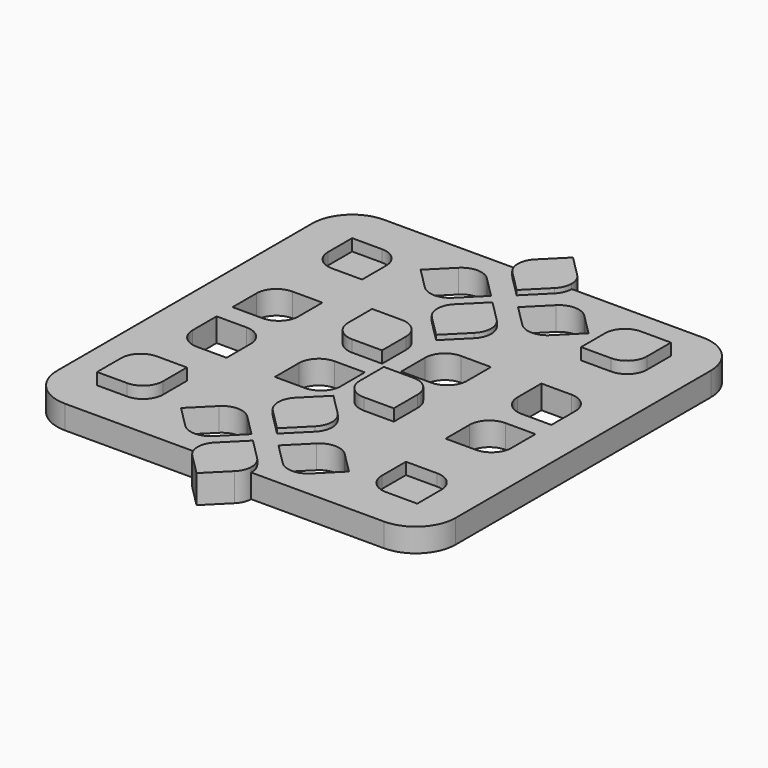
from build123d import *

# Parameters (mm, degrees)
F1_DEPTH = 3
F2_DEPTH = 3.6
F3_DEPTH = 1.5
F4_DEPTH = 4.5


with BuildPart() as f1:
    # F0 (on Top) → F1 (new body)
    with BuildSketch(Plane.XY):
        with BuildLine():
            Line((3.385072, -25.4), (20.32, -25.4))
            ThreePointArc((20.32, -25.4), (23.912102, -23.912102), (25.4, -20.32))
            Line((25.4, -20.32), (25.4, 20.32))
            ThreePointArc((25.4, 20.32), (23.912102, 23.912102), (20.32, 25.4))
            Line((20.32, 25.4), (3.607065, 25.4))
            ThreePointArc((3.607065, 25.4), (3.411955, 24.432983), (2.863133, 23.613237))
            Line((2.863133, 23.613237), (0.169057, 20.91916))
            Line((0.169057, 20.91916), (-2.52502, 23.613237))
            ThreePointArc((-2.52502, 23.613237), (-3.073842, 24.432983), (-3.268952, 25.4))
            Line((-3.268952, 25.4), (-20.32, 25.4))
            ThreePointArc((-20.32, 25.4), (-23.912102, 23.912102), (-25.4, 20.32))
            Line((-25.4, 20.32), (-25.4, -20.32))
            ThreePointArc((-25.4, -20.32), (-23.912102, -23.912102), (-20.32, -25.4))
            Line((-20.32, -25.4), (-3.487987, -25.4))
            ThreePointArc((-3.487987, -25.4), (-3.312471, -24.381236), (-2.745534, -23.516789))
            Line((-2.745534, -23.516789), (-0.051457, -20.822713))
            Line((-0.051457, -20.822713), (2.642619, -23.516789))
            ThreePointArc((2.642619, -23.516789), (3.209556, -24.381236), (3.385072, -25.4))
        make_face()
        with BuildLine():
            Line((-17.78, -13.97), (-13.9446, -13.97))
            Line((-13.9446, -13.97), (-13.9446, -17.78))
            ThreePointArc((-13.9446, -17.78), (-14.688549, -19.576051), (-16.4846, -20.32))
            Line((-16.4846, -20.32), (-20.32, -20.32))
            Line((-20.32, -20.32), (-20.32, -16.51))
            ThreePointArc((-20.32, -16.51), (-19.576051, -14.713949), (-17.78, -13.97))
        make_face(mode=Mode.SUBTRACT)
        with BuildLine():
            Line((-4.459977, -16.215056), (-1.74794, -18.927093))
            Line((-1.74794, -18.927093), (-4.442017, -21.62117))
            ThreePointArc((-4.442017, -21.62117), (-6.238068, -22.365119), (-8.034119, -21.62117))
            Line((-8.034119, -21.62117), (-10.746157, -18.909132))
            Line((-10.746157, -18.909132), (-8.05208, -16.215056))
            ThreePointArc((-8.05208, -16.215056), (-6.256029, -15.471107), (-4.459977, -16.215056))
        make_face(mode=Mode.SUBTRACT)
        with BuildLine():
            Line((-13.97, -3.81), (-13.97, -7.62))
            Line((-13.97, -7.62), (-17.78, -7.62))
            ThreePointArc((-17.78, -7.62), (-19.576051, -6.876051), (-20.32, -5.08))
            Line((-20.32, -5.08), (-20.32, -1.27))
            Line((-20.32, -1.27), (-16.51, -1.27))
            ThreePointArc((-16.51, -1.27), (-14.713949, -2.013949), (-13.97, -3.81))
        make_face(mode=Mode.SUBTRACT)
        with BuildLine():
            Line((-5.091077, -1.492136), (-1.255677, -1.492136))
            Line((-1.255677, -1.492136), (-1.255677, -5.302136))
            ThreePointArc((-1.255677, -5.302136), (-1.999626, -7.098187), (-3.795677, -7.842136))
            Line((-3.795677, -7.842136), (-7.631077, -7.842136))
            Line((-7.631077, -7.842136), (-7.631077, -4.032136))
            ThreePointArc((-7.631077, -4.032136), (-6.887128, -2.236084), (-5.091077, -1.492136))
        make_face(mode=Mode.SUBTRACT)
        with BuildLine():
            Line((4.577577, -21.859644), (1.865539, -19.147607))
            Line((1.865539, -19.147607), (4.559616, -16.45353))
            ThreePointArc((4.559616, -16.45353), (6.355667, -15.709581), (8.151719, -16.45353))
            Line((8.151719, -16.45353), (10.863756, -19.165567))
            Line((10.863756, -19.165567), (8.169679, -21.859644))
            ThreePointArc((8.169679, -21.859644), (6.373628, -22.603593), (4.577577, -21.859644))
        make_face(mode=Mode.SUBTRACT)
        with BuildLine():
            Line((13.970002, -17.78), (13.970002, -13.97))
            Line((13.970002, -13.97), (17.954357, -13.97))
            ThreePointArc((17.954357, -13.97), (19.750409, -14.713949), (20.494357, -16.51))
            Line((20.494357, -16.51), (20.494357, -20.32))
            Line((20.494357, -20.32), (16.510002, -20.32))
            ThreePointArc((16.510002, -20.32), (14.713951, -19.576051), (13.970002, -17.78))
        make_face(mode=Mode.SUBTRACT)
        with BuildLine():
            Line((-2.52502, -10.965808), (0.169057, -8.271731))
            Line((0.169057, -8.271731), (2.863133, -10.965808))
            ThreePointArc((2.863133, -10.965808), (3.607082, -12.761859), (2.863133, -14.55791))
            Line((2.863133, -14.55791), (0.169057, -17.251987))
            Line((0.169057, -17.251987), (-2.52502, -14.55791))
            ThreePointArc((-2.52502, -14.55791), (-3.268969, -12.761859), (-2.52502, -10.965808))
        make_face(mode=Mode.SUBTRACT)
        with BuildLine():
            Line((7.634323, -4.172947), (7.634323, -7.982947))
            Line((7.634323, -7.982947), (3.824323, -7.982947))
            ThreePointArc((3.824323, -7.982947), (2.028272, -7.238998), (1.284323, -5.442947))
            Line((1.284323, -5.442947), (1.284323, -1.632947))
            Line((1.284323, -1.632947), (5.094323, -1.632947))
            ThreePointArc((5.094323, -1.632947), (6.890374, -2.376895), (7.634323, -4.172947))
        make_face(mode=Mode.SUBTRACT)
        with BuildLine():
            Line((16.4846, -1.27), (20.32, -1.27))
            Line((20.32, -1.27), (20.32, -5.08))
            ThreePointArc((20.32, -5.08), (19.576051, -6.876051), (17.78, -7.62))
            Line((17.78, -7.62), (13.9446, -7.62))
            Line((13.9446, -7.62), (13.9446, -3.81))
            ThreePointArc((13.9446, -3.81), (14.688549, -2.013949), (16.4846, -1.27))
        make_face(mode=Mode.SUBTRACT)
        with BuildLine():
            Line((-16.4846, 1.27), (-20.32, 1.27))
            Line((-20.32, 1.27), (-20.32, 5.08))
            ThreePointArc((-20.32, 5.08), (-19.576051, 6.876051), (-17.78, 7.62))
            Line((-17.78, 7.62), (-13.9446, 7.62))
            Line((-13.9446, 7.62), (-13.9446, 3.81))
            ThreePointArc((-13.9446, 3.81), (-14.688549, 2.013949), (-16.4846, 1.27))
        make_face(mode=Mode.SUBTRACT)
        with BuildLine():
            Line((-7.434634, 3.587864), (-7.434634, 7.397864))
            Line((-7.434634, 7.397864), (-3.624634, 7.397864))
            ThreePointArc((-3.624634, 7.397864), (-1.828583, 6.653916), (-1.084634, 4.857864))
            Line((-1.084634, 4.857864), (-1.084634, 1.047864))
            Line((-1.084634, 1.047864), (-4.894634, 1.047864))
            ThreePointArc((-4.894634, 1.047864), (-6.690686, 1.791813), (-7.434634, 3.587864))
        make_face(mode=Mode.SUBTRACT)
        with BuildLine():
            Line((2.642619, 11.062255), (-0.051457, 8.368178))
            Line((-0.051457, 8.368178), (-2.745534, 11.062255))
            ThreePointArc((-2.745534, 11.062255), (-3.489483, 12.858307), (-2.745534, 14.654358))
            Line((-2.745534, 14.654358), (-0.051457, 17.348435))
            Line((-0.051457, 17.348435), (2.642619, 14.654358))
            ThreePointArc((2.642619, 14.654358), (3.386568, 12.858307), (2.642619, 11.062255))
        make_face(mode=Mode.SUBTRACT)
        with BuildLine():
            Line((-20.32, 16.51), (-20.32, 20.32))
            Line((-20.32, 20.32), (-16.51, 20.32))
            ThreePointArc((-16.51, 20.32), (-14.713949, 19.576051), (-13.97, 17.78))
            Line((-13.97, 17.78), (-13.97, 13.97))
            Line((-13.97, 13.97), (-17.78, 13.97))
            ThreePointArc((-17.78, 13.97), (-19.576051, 14.713949), (-20.32, 16.51))
        make_face(mode=Mode.SUBTRACT)
        with BuildLine():
            Line((-4.459977, 21.956092), (-1.74794, 19.244054))
            Line((-1.74794, 19.244054), (-4.442017, 16.549977))
            ThreePointArc((-4.442017, 16.549977), (-6.238068, 15.806029), (-8.034119, 16.549977))
            Line((-8.034119, 16.549977), (-10.746157, 19.262015))
            Line((-10.746157, 19.262015), (-8.05208, 21.956092))
            ThreePointArc((-8.05208, 21.956092), (-6.256029, 22.70004), (-4.459977, 21.956092))
        make_face(mode=Mode.SUBTRACT)
        with BuildLine():
            Line((5.290766, 0.907053), (1.455366, 0.907053))
            Line((1.455366, 0.907053), (1.455366, 4.717053))
            ThreePointArc((1.455366, 4.717053), (2.199314, 6.513105), (3.995366, 7.257053))
            Line((3.995366, 7.257053), (7.830766, 7.257053))
            Line((7.830766, 7.257053), (7.830766, 3.447053))
            ThreePointArc((7.830766, 3.447053), (7.086817, 1.651002), (5.290766, 0.907053))
        make_face(mode=Mode.SUBTRACT)
        with BuildLine():
            Line((13.966688, 3.81), (13.966688, 7.62))
            Line((13.966688, 7.62), (17.78, 7.62))
            ThreePointArc((17.78, 7.62), (19.576051, 6.876051), (20.32, 5.08))
            Line((20.32, 5.08), (20.32, 1.27))
            Line((20.32, 1.27), (16.506688, 1.27))
            ThreePointArc((16.506688, 1.27), (14.710636, 2.013949), (13.966688, 3.81))
        make_face(mode=Mode.SUBTRACT)
        with BuildLine():
            Line((4.577577, 16.311503), (1.865539, 19.02354))
            Line((1.865539, 19.02354), (4.559616, 21.717617))
            ThreePointArc((4.559616, 21.717617), (6.355667, 22.461566), (8.151719, 21.717617))
            Line((8.151719, 21.717617), (10.863756, 19.00558))
            Line((10.863756, 19.00558), (8.169679, 16.311503))
            ThreePointArc((8.169679, 16.311503), (6.373628, 15.567554), (4.577577, 16.311503))
        make_face(mode=Mode.SUBTRACT)
        with BuildLine():
            Line((16.4846, 20.32), (20.32, 20.32))
            Line((20.32, 20.32), (20.32, 16.51))
            ThreePointArc((20.32, 16.51), (19.576051, 14.713949), (17.78, 13.97))
            Line((17.78, 13.97), (13.9446, 13.97))
            Line((13.9446, 13.97), (13.9446, 17.78))
            ThreePointArc((13.9446, 17.78), (14.688549, 19.576051), (16.4846, 20.32))
        make_face(mode=Mode.SUBTRACT)
    extrude(amount=F1_DEPTH)

    # F0 (on Top) → F2 (join)
    with BuildSketch(Plane.XY):
        with BuildLine():
            Line((-3.268952, 25.4), (3.607065, 25.4))
            ThreePointArc((3.607065, 25.4), (3.415509, 26.377012), (2.863133, 27.205339))
            Line((2.863133, 27.205339), (0.169057, 29.899416))
            Line((0.169057, 29.899416), (-2.52502, 27.205339))
            ThreePointArc((-2.52502, 27.205339), (-3.077396, 26.377012), (-3.268952, 25.4))
        make_face()
        with BuildLine():
            ThreePointArc((2.863133, 23.613237), (3.411955, 24.432983), (3.607065, 25.4))
            Line((3.607065, 25.4), (-3.268952, 25.4))
            ThreePointArc((-3.268952, 25.4), (-3.073842, 24.432983), (-2.52502, 23.613237))
            Line((-2.52502, 23.613237), (0.169057, 20.91916))
            Line((0.169057, 20.91916), (2.863133, 23.613237))
        make_face()
        with BuildLine():
            Line((-2.745534, 11.062255), (-0.051457, 8.368178))
            Line((-0.051457, 8.368178), (2.642619, 11.062255))
            ThreePointArc((2.642619, 11.062255), (3.386568, 12.858307), (2.642619, 14.654358))
            Line((2.642619, 14.654358), (-0.051457, 17.348435))
            Line((-0.051457, 17.348435), (-2.745534, 14.654358))
            ThreePointArc((-2.745534, 14.654358), (-3.489483, 12.858307), (-2.745534, 11.062255))
        make_face()
        with BuildLine():
            ThreePointArc((2.642619, -27.108892), (3.176197, -26.324982), (3.385072, -25.4))
            Line((3.385072, -25.4), (-3.487987, -25.4))
            ThreePointArc((-3.487987, -25.4), (-3.279112, -26.324982), (-2.745534, -27.108892))
            Line((-2.745534, -27.108892), (-0.051457, -29.802969))
            Line((-0.051457, -29.802969), (2.642619, -27.108892))
        make_face()
        with BuildLine():
            Line((-3.487987, -25.4), (3.385072, -25.4))
            ThreePointArc((3.385072, -25.4), (3.209556, -24.381236), (2.642619, -23.516789))
            Line((2.642619, -23.516789), (-0.051457, -20.822713))
            Line((-0.051457, -20.822713), (-2.745534, -23.516789))
            ThreePointArc((-2.745534, -23.516789), (-3.312471, -24.381236), (-3.487987, -25.4))
        make_face()
        with BuildLine():
            Line((2.863133, -10.965808), (0.169057, -8.271731))
            Line((0.169057, -8.271731), (-2.52502, -10.965808))
            ThreePointArc((-2.52502, -10.965808), (-3.268969, -12.761859), (-2.52502, -14.55791))
            Line((-2.52502, -14.55791), (0.169057, -17.251987))
            Line((0.169057, -17.251987), (2.863133, -14.55791))
            ThreePointArc((2.863133, -14.55791), (3.607082, -12.761859), (2.863133, -10.965808))
        make_face()
    extrude(amount=F2_DEPTH)

    # F0 (on Top) → F3 (join)
    with BuildSketch(Plane.XY):
        with BuildLine():
            Line((-16.51, 20.32), (-20.32, 20.32))
            Line((-20.32, 20.32), (-20.32, 16.51))
            ThreePointArc((-20.32, 16.51), (-19.576051, 14.713949), (-17.78, 13.97))
            Line((-17.78, 13.97), (-13.97, 13.97))
            Line((-13.97, 13.97), (-13.97, 17.78))
            ThreePointArc((-13.97, 17.78), (-14.713949, 19.576051), (-16.51, 20.32))
        make_face()
        with BuildLine():
            Line((17.954357, -13.97), (13.970002, -13.97))
            Line((13.970002, -13.97), (13.970002, -17.78))
            ThreePointArc((13.970002, -17.78), (14.713951, -19.576051), (16.510002, -20.32))
            Line((16.510002, -20.32), (20.494357, -20.32))
            Line((20.494357, -20.32), (20.494357, -16.51))
            ThreePointArc((20.494357, -16.51), (19.750409, -14.713949), (17.954357, -13.97))
        make_face()
    extrude(amount=F3_DEPTH)

    # F0 (on Top) → F4 (join)
    with BuildSketch(Plane.XY):
        with BuildLine():
            Line((20.32, 16.51), (20.32, 20.32))
            Line((20.32, 20.32), (16.4846, 20.32))
            ThreePointArc((16.4846, 20.32), (14.688549, 19.576051), (13.9446, 17.78))
            Line((13.9446, 17.78), (13.9446, 13.97))
            Line((13.9446, 13.97), (17.78, 13.97))
            ThreePointArc((17.78, 13.97), (19.576051, 14.713949), (20.32, 16.51))
        make_face()
        with BuildLine():
            Line((-13.9446, -17.78), (-13.9446, -13.97))
            Line((-13.9446, -13.97), (-17.78, -13.97))
            ThreePointArc((-17.78, -13.97), (-19.576051, -14.713949), (-20.32, -16.51))
            Line((-20.32, -16.51), (-20.32, -20.32))
            Line((-20.32, -20.32), (-16.4846, -20.32))
            ThreePointArc((-16.4846, -20.32), (-14.688549, -19.576051), (-13.9446, -17.78))
        make_face()
        with BuildLine():
            Line((-3.624634, 7.397864), (-7.434634, 7.397864))
            Line((-7.434634, 7.397864), (-7.434634, 3.587864))
            ThreePointArc((-7.434634, 3.587864), (-6.690686, 1.791813), (-4.894634, 1.047864))
            Line((-4.894634, 1.047864), (-1.084634, 1.047864))
            Line((-1.084634, 1.047864), (-1.084634, 4.857864))
            ThreePointArc((-1.084634, 4.857864), (-1.828583, 6.653916), (-3.624634, 7.397864))
        make_face()
        with BuildLine():
            Line((3.824323, -7.982947), (7.634323, -7.982947))
            Line((7.634323, -7.982947), (7.634323, -4.172947))
            ThreePointArc((7.634323, -4.172947), (6.890374, -2.376895), (5.094323, -1.632947))
            Line((5.094323, -1.632947), (1.284323, -1.632947))
            Line((1.284323, -1.632947), (1.284323, -5.442947))
            ThreePointArc((1.284323, -5.442947), (2.028272, -7.238998), (3.824323, -7.982947))
        make_face()
    extrude(amount=F4_DEPTH)


solid = f1.part
